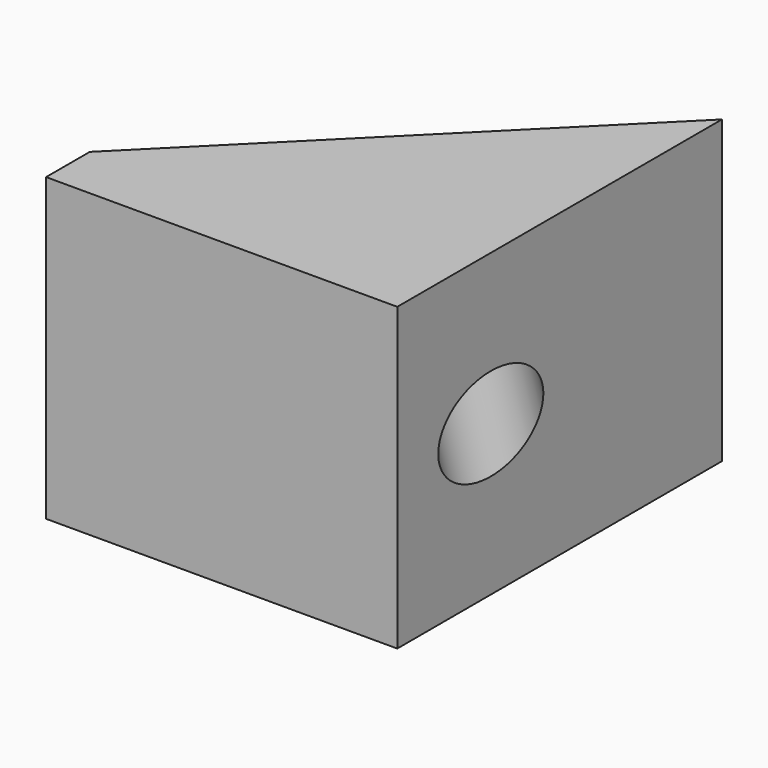
from build123d import *

# Parameters (mm, degrees)
F1_DEPTH      = 3.24
F2_R          = 0.5
F3_DEPTH      = 5
F3_DEPTH_BACK = 25


with BuildPart() as f1:
    # F0 (on Top) → F1 (new body)
    with BuildSketch(Plane.XY):
        Polygon((-3.782, 0), (0, 0), (0, 4.37), (-3.782, 0.588), align=None)
    extrude(amount=F1_DEPTH)

    # F2 (on face) → F3 (cut, two sides)
    with BuildSketch(Plane(origin=(-2.185, 2.185, 0), x_dir=(-0.707107, -0.707107, 0), z_dir=(-0.707107, 0.707107, 0))) as f3_sk:
        with Locations((-0.890057, 1.62)):
            Circle(F2_R)
    extrude(amount=-F3_DEPTH, mode=Mode.SUBTRACT)
    extrude(f3_sk.sketch, amount=-F3_DEPTH_BACK, mode=Mode.SUBTRACT)


solid = f1.part
